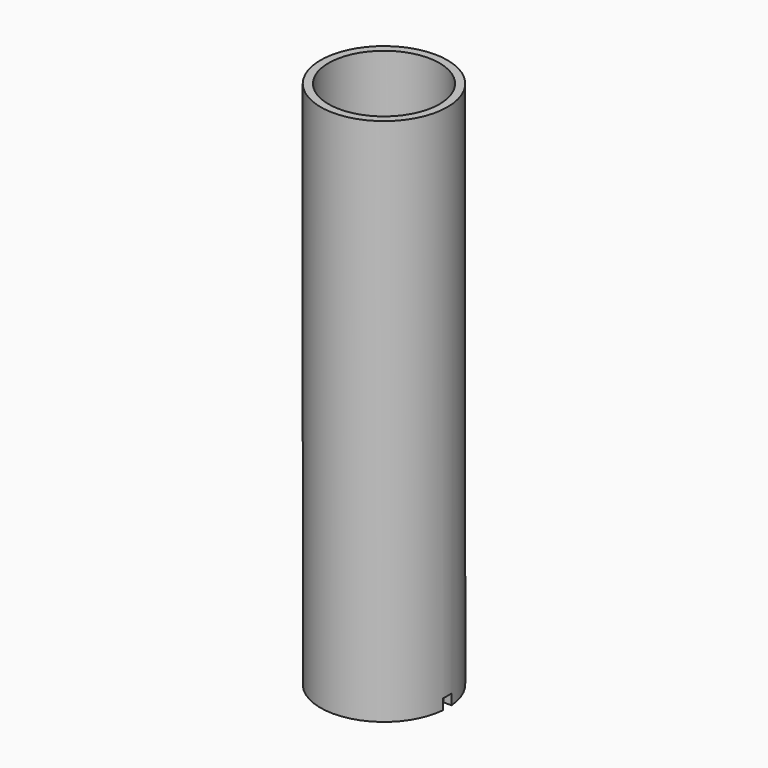
from build123d import *

# Parameters (mm, degrees)
F0_R     = 12
F0_R_2   = 10.5
F1_DEPTH = 100
F2_W     = 2
F2_H     = 2
F3_DEPTH = 15.56


with BuildPart() as f1:
    # F0 (on Top) → F1 (new body)
    with BuildSketch(Plane.XY):
        Circle(F0_R)
        Circle(F0_R_2, mode=Mode.SUBTRACT)
    extrude(amount=F1_DEPTH)

    # F2 (on Right) → F3 (cut, symmetric)
    with BuildSketch(Plane.YZ):
        with Locations((0, 1)):
            Rectangle(F2_W, F2_H)
    extrude(amount=F3_DEPTH, both=True, mode=Mode.SUBTRACT)


solid = f1.part
